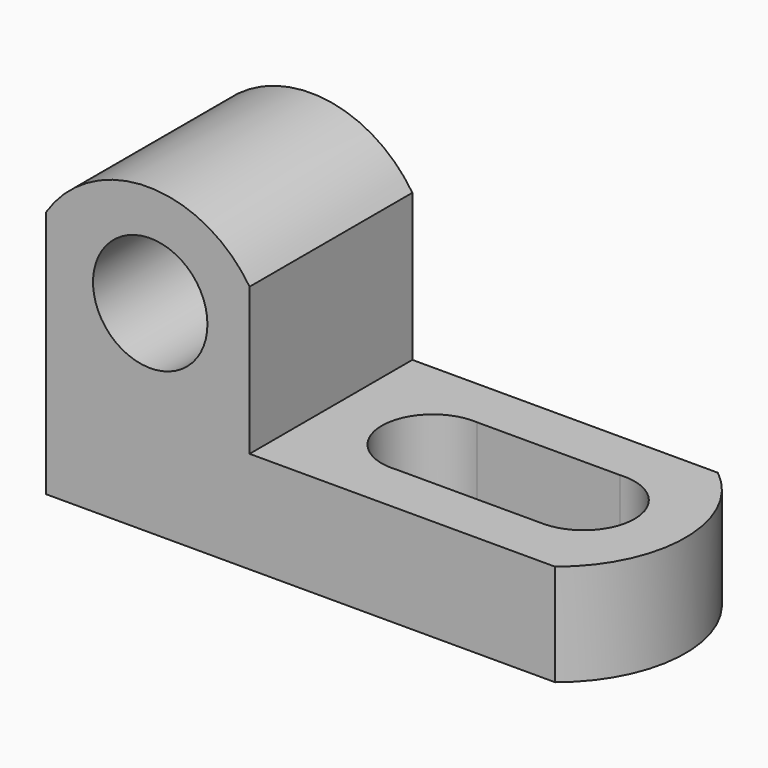
from build123d import *

# Parameters (mm, degrees)
F1_DEPTH = 25.4
F3_DEPTH = 25.4
F5_DEPTH = 25.4
F6_R     = 7.14088
F7_DEPTH = 25.4
F9_DEPTH = 25.4


with BuildPart() as f1:
    # F0 (on Front) → F1 (new body)
    with BuildSketch(Plane.XZ):
        Polygon((25.4, 38.1), (0, 38.1), (0, 0), (69.85, 0), (69.85, 12.7), (25.4, 12.7), align=None)
    extrude(amount=F1_DEPTH)

    # F2 (on face) → F3 (cut)
    with BuildSketch(Plane.XZ.offset(25.4)):
        with BuildLine():
            ThreePointArc((0, 31.003495), (12.683588, 37.919742), (25.4, 31.064033))
            Line((25.4, 31.064033), (25.4, 38.1))
            Line((25.4, 38.1), (0, 38.1))
            Line((0, 38.1), (0, 31.003495))
        make_face()
    extrude(amount=-F3_DEPTH, mode=Mode.SUBTRACT)

    # F4 (on face) → F5 (cut)
    with BuildSketch(Plane.XY.offset(12.7)):
        with BuildLine():
            ThreePointArc((63.532993, 0), (69.639018, -12.7), (63.532993, -25.4))
            Line((63.532993, -25.4), (69.85, -25.4))
            Line((69.85, -25.4), (69.85, 0))
            Line((69.85, 0), (63.532993, 0))
        make_face()
    extrude(amount=-F5_DEPTH, mode=Mode.SUBTRACT)

    # F6 (on face) → F7 (cut)
    with BuildSketch(Plane.XZ.offset(25.4)):
        with Locations((12.999689, 25.219742)):
            Circle(F6_R)
    extrude(amount=-F7_DEPTH, mode=Mode.SUBTRACT)

    # F8 (on face) → F9 (cut)
    with BuildSketch(Plane.XY.offset(12.7)):
        with BuildLine():
            Line((56.389028, -6.35), (38.564463, -6.35))
            ThreePointArc((38.564463, -6.35), (31.750977, -12.821492), (38.787275, -19.05))
            Line((38.787275, -19.05), (57.057447, -19.05))
            ThreePointArc((57.057447, -19.05), (63.280229, -12.354896), (56.389028, -6.35))
        make_face()
    extrude(amount=-F9_DEPTH, mode=Mode.SUBTRACT)


solid = f1.part
